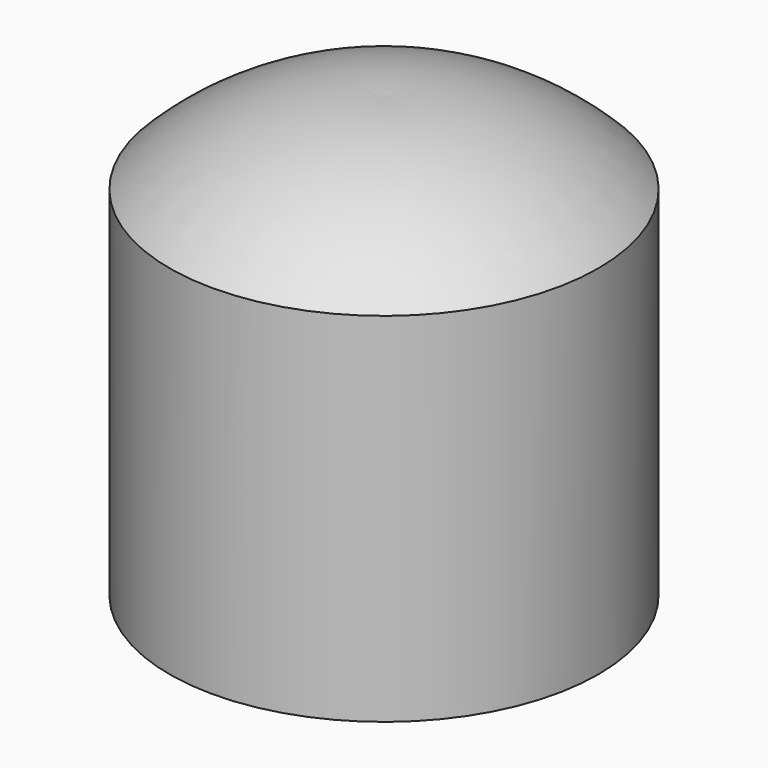
from build123d import *

# Parameters (mm, degrees)
F2_W = 6
F2_H = 10


with BuildPart() as f1:
    # F0 (on Front) → F1 (revolve)
    with BuildSketch(Plane.XZ):
        with BuildLine():
            Line((-6, 0), (0, 0))
            Line((0, 0), (0, 2.294506))
            ThreePointArc((0, 2.294506), (-3.240434, 1.775974), (-6, 0))
        make_face()
    revolve(axis=Axis((0, 0, 1.147253), (0, 0, 1)))

    # F2 (on Front) → F3 (revolve)
    with BuildSketch(Plane.XZ):
        with Locations((-3, -5)):
            Rectangle(F2_W, F2_H)
    revolve(axis=Axis((0, 0, -5), (0, 0, 1)))


solid = f1.part
